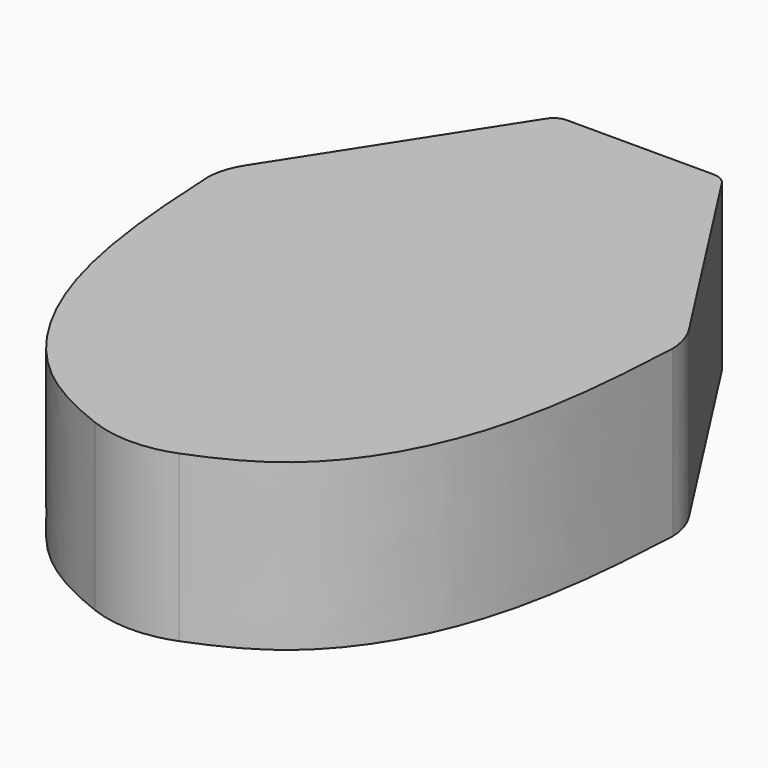
from build123d import *

# Parameters (mm, degrees)
F1_DEPTH = 10
F2_R     = 7


with BuildPart() as f1:
    # F0 (on Top) → F1 (new body)
    with BuildSketch(Plane.XY):
        with BuildLine():
            Line((-5.2952272627, 38.5407575913), (-13.4240464083, 25.8959278094))
            ThreePointArc((-13.4240464083, 25.8959278094), (-13.8750817001, 24.9329216495), (-14.0564356508, 23.8851027514))
            add(Edge.make_bspline(
                [(-14.0564356508, 23.8851027514), (-13.8623993356, 19.7947937773), (-13.2387703053, 11.566177165), (-7.8025218047, 2.478450576), (-1.7911023938, 0.6541447849), (0, 0)],
                knots=[0, 0, 0, 0, 0.3727156088, 0.7096918573, 1, 1, 1, 1], degree=3))
            add(Edge.make_bspline(
                [(14.0564356508, 23.8851027514), (13.8623993356, 19.7947937773), (13.2387703053, 11.566177165), (7.8025218047, 2.478450576), (1.7911023938, 0.6541447849), (0, 0)],
                knots=[0, 0, 0, 0, 0.3727156088, 0.7096918573, 1, 1, 1, 1], degree=3))
            ThreePointArc((14.0564356508, 23.8851027514), (13.8750817001, 24.9329216495), (13.4240464083, 25.8959278094))
            Line((13.4240464083, 25.8959278094), (5.2952272627, 38.5407575913))
            ThreePointArc((5.2952272627, 38.5407575913), (4.9332368552, 38.8777122511), (4.4540487874, 39))
            Line((4.4540487874, 39), (-4.4540487874, 39))
            ThreePointArc((-4.4540487874, 39), (-4.9332368552, 38.8777122511), (-5.2952272627, 38.5407575913))
        make_face()
    extrude(amount=F1_DEPTH)

    # F2
    f2_edges = [f1.edges().sort_by_distance(p)[0] for p in [
        (0, 0, 5),
    ]]
    fillet(f2_edges, radius=F2_R)


solid = f1.part
